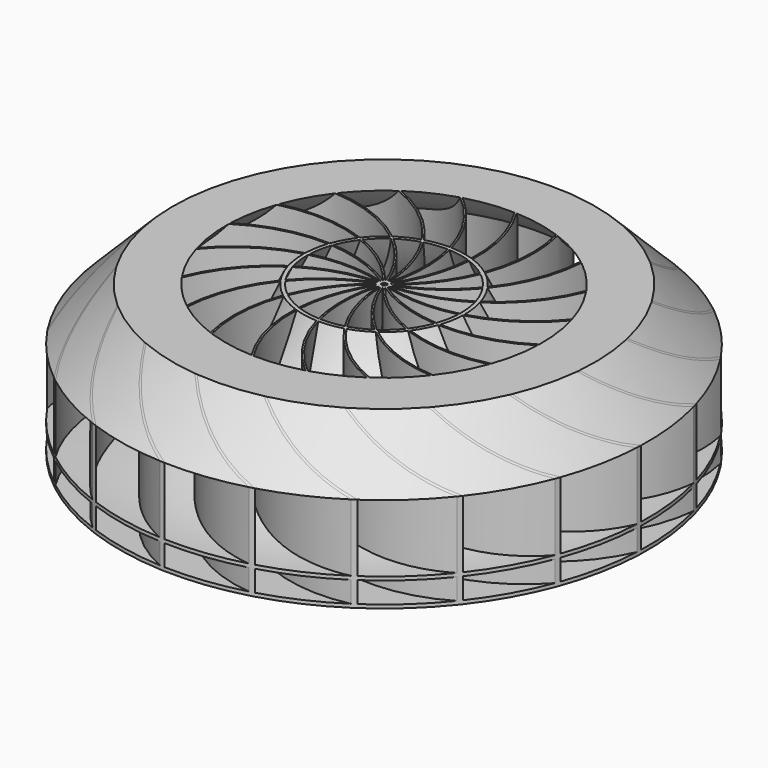
from build123d import *

# Parameters (mm, degrees)
F4_DEPTH = 75


with BuildPart() as f4:
    # F1 (on Top) → F4 (new body, symmetric)
    with BuildSketch(Plane.XY):
        with BuildLine():
            ThreePointArc((0.7718255705, -0.2425991368), (0.6320095937, -0.2450377547), (0.4921859885, -0.2469906074))
            ThreePointArc((0.4921859885, -0.2469906074), (0.5754399954, -0.3582575255), (0.6590824822, -0.4692327079))
            ThreePointArc((0.6590824822, -0.4692327079), (1.0480909241, -0.5852921245), (1.4382501146, -0.6974222369))
            ThreePointArc((1.4382501146, -0.6974222369), (1.1038838253, -0.471701598), (0.7718255705, -0.2425991368))
        make_face()
        with BuildLine():
            ThreePointArc((0.6590824822, -0.4692327079), (0.525356012, -0.4283464584), (0.3917723964, -0.3869958615))
            ThreePointArc((0.3917723964, -0.3869958615), (0.4365682936, -0.5185438919), (0.4818238084, -0.6499345122))
            ThreePointArc((0.4818238084, -0.6499345122), (0.8159284898, -0.8805237962), (1.1523418201, -1.1077316905))
            ThreePointArc((1.1523418201, -1.1077316905), (0.9040920952, -0.7897337403), (0.6590824822, -0.4692327079))
        make_face()
        with BuildLine():
            ThreePointArc((0.4818238084, -0.6499345122), (0.3672769235, -0.5697256263), (0.2530093926, -0.4891192643))
            ThreePointArc((0.2530093926, -0.4891192643), (0.2549622455, -0.6280715693), (0.2574008632, -0.7670161981))
            ThreePointArc((0.2574008632, -0.7670161981), (0.5038972901, -1.0895636637), (0.7536342794, -1.4096086483))
            ThreePointArc((0.7536342794, -1.4096086483), (0.6158015317, -1.0304612418), (0.4818238084, -0.6499345122))
        make_face()
        with BuildLine():
            ThreePointArc((0.2574008632, -0.7670161981), (0.1732462107, -0.6553360804), (0.0894800666, -0.5433642656))
            ThreePointArc((0.0894800666, -0.5433642656), (0.0483987164, -0.6761192255), (0.007781728, -0.8090169944))
            ThreePointArc((0.007781728, -0.8090169944), (0.1425411128, -1.1919494483), (0.2811557646, -1.5735032903))
            ThreePointArc((0.2811557646, -1.5735032903), (0.2672320237, -1.1703200172), (0.2574008632, -0.7670161981))
        make_face()
        with BuildLine():
            ThreePointArc((0.007781728, -0.8090169944), (-0.0377430482, -0.6767976729), (-0.0828081918, -0.5444209867))
            ThreePointArc((-0.0828081918, -0.5444209867), (-0.1629024163, -0.6579836211), (-0.2425991368, -0.7718255705))
            ThreePointArc((-0.2425991368, -0.7718255705), (-0.2327679818, -1.1776589162), (-0.2188442354, -1.583372467))
            ThreePointArc((-0.2188442354, -1.583372467), (-0.1074960167, -1.1956197153), (0.007781728, -0.8090169944))
        make_face()
        with BuildLine():
            ThreePointArc((-0.2425991368, -0.7718255705), (-0.2450377547, -0.6320095937), (-0.2469906074, -0.4921859885))
            ThreePointArc((-0.2469906074, -0.4921859885), (-0.3582575255, -0.5754399954), (-0.4692327079, -0.6590824822))
            ThreePointArc((-0.4692327079, -0.6590824822), (-0.5852921245, -1.0480909241), (-0.6974222369, -1.4382501146))
            ThreePointArc((-0.6974222369, -1.4382501146), (-0.471701598, -1.1038838253), (-0.2425991368, -0.7718255705))
        make_face()
        with BuildLine():
            ThreePointArc((-0.4692327079, -0.6590824822), (-0.4283464584, -0.525356012), (-0.3869958615, -0.3917723964))
            ThreePointArc((-0.3869958615, -0.3917723964), (-0.5185438919, -0.4365682936), (-0.6499345122, -0.4818238084))
            ThreePointArc((-0.6499345122, -0.4818238084), (-0.8805237962, -0.8159284898), (-1.1077316905, -1.1523418201))
            ThreePointArc((-1.1077316905, -1.1523418201), (-0.7897337403, -0.9040920952), (-0.4692327079, -0.6590824822))
        make_face()
        with BuildLine():
            ThreePointArc((-0.6499345122, -0.4818238084), (-0.5697256263, -0.3672769235), (-0.4891192643, -0.2530093926))
            ThreePointArc((-0.4891192643, -0.2530093926), (-0.6280715693, -0.2549622455), (-0.7670161981, -0.2574008632))
            ThreePointArc((-0.7670161981, -0.2574008632), (-1.0895636637, -0.5038972901), (-1.4096086483, -0.7536342794))
            ThreePointArc((-1.4096086483, -0.7536342794), (-1.0304612418, -0.6158015317), (-0.6499345122, -0.4818238084))
        make_face()
        with BuildLine():
            ThreePointArc((0.5444209867, -0.0828081918), (0.6579836211, -0.1629024163), (0.7718255705, -0.2425991368))
            ThreePointArc((0.7718255705, -0.2425991368), (1.1776589162, -0.2327679818), (1.583372467, -0.2188442354))
            ThreePointArc((1.583372467, -0.2188442354), (1.1956197153, -0.1074960167), (0.8090169944, 0.007781728))
            ThreePointArc((0.8090169944, 0.007781728), (0.6767976729, -0.0377430482), (0.5444209867, -0.0828081918))
        make_face()
        with BuildLine():
            ThreePointArc((1.583372467, -0.2188442354), (1.1776589162, -0.2327679818), (0.7718255705, -0.2425991368))
            ThreePointArc((0.7718255705, -0.2425991368), (1.1038838253, -0.471701598), (1.4382501146, -0.6974222369))
            ThreePointArc((1.4382501146, -0.6974222369), (50.877987972, 26.359817874), (24.7986137986, 76.3222854327))
            Line((24.7986137986, 76.3222854327), (24.6441053014, 75.8467571745))
            ThreePointArc((24.6441053014, 75.8467571745), (50.4009351302, 26.5096342157), (1.583372467, -0.2188442354))
        make_face()
        with BuildLine():
            ThreePointArc((1.4382501146, -0.6974222369), (1.0480909241, -0.5852921245), (0.6590824822, -0.4692327079))
            ThreePointArc((0.6590824822, -0.4692327079), (0.9040920952, -0.7897337403), (1.1523418201, -1.1077316905))
            ThreePointArc((1.1523418201, -1.1077316905), (56.5334736885, 9.3475136345), (47.1697664965, 64.9236137986))
            Line((47.1697664965, 64.9236137986), (46.8758738703, 64.5191053014))
            ThreePointArc((46.8758738703, 64.5191053014), (56.1260652702, 9.6374148778), (1.4382501146, -0.6974222369))
        make_face()
        with BuildLine():
            ThreePointArc((1.1523418201, -1.1077316905), (0.8159284898, -0.8805237962), (0.4818238084, -0.6499345122))
            ThreePointArc((0.4818238084, -0.6499345122), (0.6158015317, -1.0304612418), (0.7536342794, -1.4096086483))
            ThreePointArc((0.7536342794, -1.4096086483), (56.6550691084, -8.5797903675), (64.9236137986, 47.1697664965))
            Line((64.9236137986, 47.1697664965), (64.5191053014, 46.8758738703))
            ThreePointArc((64.5191053014, 46.8758738703), (56.3571850884, -8.1781817761), (1.1523418201, -1.1077316905))
        make_face()
        with BuildLine():
            ThreePointArc((0.7536342794, -1.4096086483), (0.5038972901, -1.0895636637), (0.2574008632, -0.7670161981))
            ThreePointArc((0.2574008632, -0.7670161981), (0.2672320237, -1.1703200172), (0.2811557646, -1.5735032903))
            ThreePointArc((0.2811557646, -1.5735032903), (51.230871625, -25.6672447095), (76.3222854327, 24.7986137986))
            Line((76.3222854327, 24.7986137986), (75.8467571745, 24.6441053014))
            ThreePointArc((75.8467571745, 24.6441053014), (51.0716709664, -25.193241017), (0.7536342794, -1.4096086483))
        make_face()
        with BuildLine():
            ThreePointArc((0.2811557646, -1.5735032903), (0.1425411128, -1.1919494483), (0.007781728, -0.8090169944))
            ThreePointArc((0.007781728, -0.8090169944), (-0.1074960167, -1.1956197153), (-0.2188442354, -1.583372467))
            ThreePointArc((-0.2188442354, -1.583372467), (40.7918394804, -40.2422103051), (80.25, 0))
            Line((80.25, 0), (79.75, 0))
            ThreePointArc((79.75, 0), (40.7869058531, -39.7422102956), (0.2811557646, -1.5735032903))
        make_face()
        with BuildLine():
            ThreePointArc((-0.2188442354, -1.583372467), (-0.2327679818, -1.1776589162), (-0.2425991368, -0.7718255705))
            ThreePointArc((-0.2425991368, -0.7718255705), (-0.471701598, -1.1038838253), (-0.6974222369, -1.4382501146))
            ThreePointArc((-0.6974222369, -1.4382501146), (26.359817874, -50.877987972), (76.3222854327, -24.7986137986))
            Line((76.3222854327, -24.7986137986), (75.8467571745, -24.6441053014))
            ThreePointArc((75.8467571745, -24.6441053014), (26.5096342157, -50.4009351302), (-0.2188442354, -1.583372467))
        make_face()
        with BuildLine():
            ThreePointArc((-0.6974222369, -1.4382501146), (-0.5852921245, -1.0480909241), (-0.4692327079, -0.6590824822))
            ThreePointArc((-0.4692327079, -0.6590824822), (-0.7897337403, -0.9040920952), (-1.1077316905, -1.1523418201))
            ThreePointArc((-1.1077316905, -1.1523418201), (9.3475136345, -56.5334736885), (64.9236137986, -47.1697664965))
            Line((64.9236137986, -47.1697664965), (64.5191053014, -46.8758738703))
            ThreePointArc((64.5191053014, -46.8758738703), (9.6374148778, -56.1260652702), (-0.6974222369, -1.4382501146))
        make_face()
        with BuildLine():
            ThreePointArc((-1.1077316905, -1.1523418201), (-0.8805237962, -0.8159284898), (-0.6499345122, -0.4818238084))
            ThreePointArc((-0.6499345122, -0.4818238084), (-1.0304612418, -0.6158015317), (-1.4096086483, -0.7536342794))
            ThreePointArc((-1.4096086483, -0.7536342794), (-8.5797903675, -56.6550691084), (47.1697664965, -64.9236137986))
            Line((47.1697664965, -64.9236137986), (46.8758738703, -64.5191053014))
            ThreePointArc((46.8758738703, -64.5191053014), (-8.1781817761, -56.3571850884), (-1.1077316905, -1.1523418201))
        make_face()
        with BuildLine():
            ThreePointArc((-1.4096086483, -0.7536342794), (-1.0895636637, -0.5038972901), (-0.7670161981, -0.2574008632))
            ThreePointArc((-0.7670161981, -0.2574008632), (-1.1703200172, -0.2672320237), (-1.5735032903, -0.2811557646))
            ThreePointArc((-1.5735032903, -0.2811557646), (-25.6672447095, -51.230871625), (24.7986137986, -76.3222854327))
            Line((24.7986137986, -76.3222854327), (24.6441053014, -75.8467571745))
            ThreePointArc((24.6441053014, -75.8467571745), (-25.193241017, -51.0716709664), (-1.4096086483, -0.7536342794))
        make_face()
        with BuildLine():
            ThreePointArc((-1.5735032903, -0.2811557646), (-1.1703200172, -0.2672320237), (-0.7670161981, -0.2574008632))
            ThreePointArc((-0.7670161981, -0.2574008632), (-0.6553360804, -0.1732462107), (-0.5433642656, -0.0894800666))
            ThreePointArc((-0.5433642656, -0.0894800666), (-0.6761192255, -0.0483987164), (-0.8090169944, -0.007781728))
            ThreePointArc((-0.8090169944, -0.007781728), (-1.1919494483, -0.1425411128), (-1.5735032903, -0.2811557646))
        make_face()
        with BuildLine():
            ThreePointArc((0.8090169944, 0.007781728), (1.1956197153, -0.1074960167), (1.583372467, -0.2188442354))
            ThreePointArc((1.583372467, -0.2188442354), (40.2422103051, 40.7918394804), (0, 80.25))
            Line((0, 80.25), (0, 79.75))
            ThreePointArc((0, 79.75), (39.7422102956, 40.7869058531), (1.5735032903, 0.2811557646))
            ThreePointArc((1.5735032903, 0.2811557646), (1.1919494483, 0.1425411128), (0.8090169944, 0.007781728))
        make_face()
        with BuildLine():
            ThreePointArc((0.6499345122, 0.4818238084), (0.5697256263, 0.3672769235), (0.4891192643, 0.2530093926))
            ThreePointArc((0.4891192643, 0.2530093926), (0.6280715693, 0.2549622455), (0.7670161981, 0.2574008632))
            ThreePointArc((0.7670161981, 0.2574008632), (1.0895636637, 0.5038972901), (1.4096086483, 0.7536342794))
            ThreePointArc((1.4096086483, 0.7536342794), (1.0304612418, 0.6158015317), (0.6499345122, 0.4818238084))
        make_face()
        with BuildLine():
            ThreePointArc((0.4692327079, 0.6590824822), (0.4283464584, 0.525356012), (0.3869958615, 0.3917723964))
            ThreePointArc((0.3869958615, 0.3917723964), (0.5185438919, 0.4365682936), (0.6499345122, 0.4818238084))
            ThreePointArc((0.6499345122, 0.4818238084), (0.8805237962, 0.8159284898), (1.1077316905, 1.1523418201))
            ThreePointArc((1.1077316905, 1.1523418201), (0.7897337403, 0.9040920952), (0.4692327079, 0.6590824822))
        make_face()
        with BuildLine():
            ThreePointArc((0.2425991368, 0.7718255705), (0.2450377547, 0.6320095937), (0.2469906074, 0.4921859885))
            ThreePointArc((0.2469906074, 0.4921859885), (0.3582575255, 0.5754399954), (0.4692327079, 0.6590824822))
            ThreePointArc((0.4692327079, 0.6590824822), (0.5852921245, 1.0480909241), (0.6974222369, 1.4382501146))
            ThreePointArc((0.6974222369, 1.4382501146), (0.471701598, 1.1038838253), (0.2425991368, 0.7718255705))
        make_face()
        with BuildLine():
            ThreePointArc((-0.007781728, 0.8090169944), (0.0377430482, 0.6767976729), (0.0828081918, 0.5444209867))
            ThreePointArc((0.0828081918, 0.5444209867), (0.1629024163, 0.6579836211), (0.2425991368, 0.7718255705))
            ThreePointArc((0.2425991368, 0.7718255705), (0.2327679818, 1.1776589162), (0.2188442354, 1.583372467))
            ThreePointArc((0.2188442354, 1.583372467), (0.1074960167, 1.1956197153), (-0.007781728, 0.8090169944))
        make_face()
        with BuildLine():
            ThreePointArc((-0.2574008632, 0.7670161981), (-0.1732462107, 0.6553360804), (-0.0894800666, 0.5433642656))
            ThreePointArc((-0.0894800666, 0.5433642656), (-0.0483987164, 0.6761192255), (-0.007781728, 0.8090169944))
            ThreePointArc((-0.007781728, 0.8090169944), (-0.1425411128, 1.1919494483), (-0.2811557646, 1.5735032903))
            ThreePointArc((-0.2811557646, 1.5735032903), (-0.2672320237, 1.1703200172), (-0.2574008632, 0.7670161981))
        make_face()
        with BuildLine():
            ThreePointArc((-0.4818238084, 0.6499345122), (-0.3672769235, 0.5697256263), (-0.2530093926, 0.4891192643))
            ThreePointArc((-0.2530093926, 0.4891192643), (-0.2549622455, 0.6280715693), (-0.2574008632, 0.7670161981))
            ThreePointArc((-0.2574008632, 0.7670161981), (-0.5038972901, 1.0895636637), (-0.7536342794, 1.4096086483))
            ThreePointArc((-0.7536342794, 1.4096086483), (-0.6158015317, 1.0304612418), (-0.4818238084, 0.6499345122))
        make_face()
        with BuildLine():
            ThreePointArc((-0.6590824822, 0.4692327079), (-0.525356012, 0.4283464584), (-0.3917723964, 0.3869958615))
            ThreePointArc((-0.3917723964, 0.3869958615), (-0.4365682936, 0.5185438919), (-0.4818238084, 0.6499345122))
            ThreePointArc((-0.4818238084, 0.6499345122), (-0.8159284898, 0.8805237962), (-1.1523418201, 1.1077316905))
            ThreePointArc((-1.1523418201, 1.1077316905), (-0.9040920952, 0.7897337403), (-0.6590824822, 0.4692327079))
        make_face()
        with BuildLine():
            ThreePointArc((-0.7718255705, 0.2425991368), (-0.6320095937, 0.2450377547), (-0.4921859885, 0.2469906074))
            ThreePointArc((-0.4921859885, 0.2469906074), (-0.5754399954, 0.3582575255), (-0.6590824822, 0.4692327079))
            ThreePointArc((-0.6590824822, 0.4692327079), (-1.0480909241, 0.5852921245), (-1.4382501146, 0.6974222369))
            ThreePointArc((-1.4382501146, 0.6974222369), (-1.1038838253, 0.471701598), (-0.7718255705, 0.2425991368))
        make_face()
        with BuildLine():
            ThreePointArc((-0.8090169944, -0.007781728), (-0.6767976729, 0.0377430482), (-0.5444209867, 0.0828081918))
            ThreePointArc((-0.5444209867, 0.0828081918), (-0.6579836211, 0.1629024163), (-0.7718255705, 0.2425991368))
            ThreePointArc((-0.7718255705, 0.2425991368), (-1.1776589162, 0.2327679818), (-1.583372467, 0.2188442354))
            ThreePointArc((-1.583372467, 0.2188442354), (-1.1956197153, 0.1074960167), (-0.8090169944, -0.007781728))
        make_face()
        with BuildLine():
            ThreePointArc((0.7670161981, 0.2574008632), (0.6553360804, 0.1732462107), (0.5433642656, 0.0894800666))
            ThreePointArc((0.5433642656, 0.0894800666), (0.6761192255, 0.0483987164), (0.8090169944, 0.007781728))
            ThreePointArc((0.8090169944, 0.007781728), (1.1919494483, 0.1425411128), (1.5735032903, 0.2811557646))
            ThreePointArc((1.5735032903, 0.2811557646), (1.1703200172, 0.2672320237), (0.7670161981, 0.2574008632))
        make_face()
        with BuildLine():
            ThreePointArc((0, -79.75), (-39.7422102956, -40.7869058531), (-1.5735032903, -0.2811557646))
            ThreePointArc((-1.5735032903, -0.2811557646), (-1.1919494483, -0.1425411128), (-0.8090169944, -0.007781728))
            ThreePointArc((-0.8090169944, -0.007781728), (-1.1956197153, 0.1074960167), (-1.583372467, 0.2188442354))
            ThreePointArc((-1.583372467, 0.2188442354), (-40.2422103051, -40.7918394804), (0, -80.25))
            Line((0, -80.25), (0, -79.75))
        make_face()
        with BuildLine():
            ThreePointArc((1.4096086483, 0.7536342794), (1.0895636637, 0.5038972901), (0.7670161981, 0.2574008632))
            ThreePointArc((0.7670161981, 0.2574008632), (1.1703200172, 0.2672320237), (1.5735032903, 0.2811557646))
            ThreePointArc((1.5735032903, 0.2811557646), (25.6672447095, 51.230871625), (-24.7986137986, 76.3222854327))
            Line((-24.7986137986, 76.3222854327), (-24.6441053014, 75.8467571745))
            ThreePointArc((-24.6441053014, 75.8467571745), (25.193241017, 51.0716709664), (1.4096086483, 0.7536342794))
        make_face()
        with BuildLine():
            ThreePointArc((1.1077316905, 1.1523418201), (0.8805237962, 0.8159284898), (0.6499345122, 0.4818238084))
            ThreePointArc((0.6499345122, 0.4818238084), (1.0304612418, 0.6158015317), (1.4096086483, 0.7536342794))
            ThreePointArc((1.4096086483, 0.7536342794), (8.5797903675, 56.6550691084), (-47.1697664965, 64.9236137986))
            Line((-47.1697664965, 64.9236137986), (-46.8758738703, 64.5191053014))
            ThreePointArc((-46.8758738703, 64.5191053014), (8.1781817761, 56.3571850883), (1.1077316905, 1.1523418201))
        make_face()
        with BuildLine():
            ThreePointArc((0.6974222369, 1.4382501146), (0.5852921245, 1.0480909241), (0.4692327079, 0.6590824822))
            ThreePointArc((0.4692327079, 0.6590824822), (0.7897337403, 0.9040920952), (1.1077316905, 1.1523418201))
            ThreePointArc((1.1077316905, 1.1523418201), (-9.3475136345, 56.5334736885), (-64.9236137986, 47.1697664965))
            Line((-64.9236137986, 47.1697664965), (-64.5191053014, 46.8758738703))
            ThreePointArc((-64.5191053014, 46.8758738703), (-9.6374148778, 56.1260652702), (0.6974222369, 1.4382501146))
        make_face()
        with BuildLine():
            ThreePointArc((0.2188442354, 1.583372467), (0.2327679818, 1.1776589162), (0.2425991368, 0.7718255705))
            ThreePointArc((0.2425991368, 0.7718255705), (0.471701598, 1.1038838253), (0.6974222369, 1.4382501146))
            ThreePointArc((0.6974222369, 1.4382501146), (-26.359817874, 50.877987972), (-76.3222854327, 24.7986137986))
            Line((-76.3222854327, 24.7986137986), (-75.8467571745, 24.6441053014))
            ThreePointArc((-75.8467571745, 24.6441053014), (-26.5096342157, 50.4009351302), (0.2188442354, 1.583372467))
        make_face()
        with BuildLine():
            ThreePointArc((-0.2811557646, 1.5735032903), (-0.1425411128, 1.1919494483), (-0.007781728, 0.8090169944))
            ThreePointArc((-0.007781728, 0.8090169944), (0.1074960167, 1.1956197153), (0.2188442354, 1.583372467))
            ThreePointArc((0.2188442354, 1.583372467), (-40.7918394804, 40.2422103051), (-80.25, 0))
            Line((-80.25, 0), (-79.75, 0))
            ThreePointArc((-79.75, 0), (-40.7869058531, 39.7422102956), (-0.2811557646, 1.5735032903))
        make_face()
        with BuildLine():
            ThreePointArc((-0.7536342794, 1.4096086483), (-0.5038972901, 1.0895636637), (-0.2574008632, 0.7670161981))
            ThreePointArc((-0.2574008632, 0.7670161981), (-0.2672320237, 1.1703200172), (-0.2811557646, 1.5735032903))
            ThreePointArc((-0.2811557646, 1.5735032903), (-51.230871625, 25.6672447095), (-76.3222854327, -24.7986137986))
            Line((-76.3222854327, -24.7986137986), (-75.8467571745, -24.6441053014))
            ThreePointArc((-75.8467571745, -24.6441053014), (-51.0716709664, 25.193241017), (-0.7536342794, 1.4096086483))
        make_face()
        with BuildLine():
            ThreePointArc((-1.1523418201, 1.1077316905), (-0.8159284898, 0.8805237962), (-0.4818238084, 0.6499345122))
            ThreePointArc((-0.4818238084, 0.6499345122), (-0.6158015317, 1.0304612418), (-0.7536342794, 1.4096086483))
            ThreePointArc((-0.7536342794, 1.4096086483), (-56.6550691084, 8.5797903675), (-64.9236137986, -47.1697664965))
            Line((-64.9236137986, -47.1697664965), (-64.5191053014, -46.8758738703))
            ThreePointArc((-64.5191053014, -46.8758738703), (-56.3571850883, 8.1781817761), (-1.1523418201, 1.1077316905))
        make_face()
        with BuildLine():
            ThreePointArc((-1.4382501146, 0.6974222369), (-1.0480909241, 0.5852921245), (-0.6590824822, 0.4692327079))
            ThreePointArc((-0.6590824822, 0.4692327079), (-0.9040920952, 0.7897337403), (-1.1523418201, 1.1077316905))
            ThreePointArc((-1.1523418201, 1.1077316905), (-56.5334736885, -9.3475136345), (-47.1697664965, -64.9236137986))
            Line((-47.1697664965, -64.9236137986), (-46.8758738703, -64.5191053014))
            ThreePointArc((-46.8758738703, -64.5191053014), (-56.1260652702, -9.6374148778), (-1.4382501146, 0.6974222369))
        make_face()
        with BuildLine():
            ThreePointArc((-1.583372467, 0.2188442354), (-1.1776589162, 0.2327679818), (-0.7718255705, 0.2425991368))
            ThreePointArc((-0.7718255705, 0.2425991368), (-1.1038838253, 0.471701598), (-1.4382501146, 0.6974222369))
            ThreePointArc((-1.4382501146, 0.6974222369), (-50.877987972, -26.359817874), (-24.7986137986, -76.3222854327))
            Line((-24.7986137986, -76.3222854327), (-24.6441053014, -75.8467571745))
            ThreePointArc((-24.6441053014, -75.8467571745), (-50.4009351302, -26.5096342157), (-1.583372467, 0.2188442354))
        make_face()
    extrude(amount=F4_DEPTH, both=True)

    # F2 (on Front) → F5 (revolve)
    with BuildSketch(Plane.XZ):
        with BuildLine():
            Line((-60, 15), (-75, 0))
            ThreePointArc((-75, 0), (-58.2294901688, 3.9589803375), (-45, 15))
            Line((-45, 15), (-60, 15))
        make_face()
        with BuildLine():
            ThreePointArc((-23.0439876218, 15), (-43.9214184222, -9.8265146547), (-75, -19.1187002875))
            Line((-75, -19.1187002875), (-75, -20.1187002875))
            ThreePointArc((-75, -20.1187002875), (-43.1920303513, -10.543393819), (-21.9560123782, 15))
            Line((-21.9560123782, 15), (-23.0439876218, 15))
        make_face()
        with BuildLine():
            Line((-45, -26.1187002875), (-75, -26.1187002875))
            Line((-75, -26.1187002875), (-75, -27.1187002875))
            ThreePointArc((-75, -27.1187002875), (-39.2319313387, -31.3236347591), (-5.4142544032, -43.7091479239))
            ThreePointArc((-5.4142544032, -43.7091479239), (-2.7830042142, -44.6728268874), (0, -45))
            Line((0, -45), (0, 15))
            ThreePointArc((0, 15), (-14.5215341867, -14.2909238338), (-45, -26.1187002875))
        make_face()
    revolve(axis=Axis((0, 0, -4.5241508633), (0, 0, -1)))

    # F2 (on Front) → F6 (revolve, intersect)
    with BuildSketch(Plane.XZ):
        with BuildLine():
            Line((-60, 15), (-75, 0))
            ThreePointArc((-75, 0), (-58.2294901688, 3.9589803375), (-45, 15))
            Line((-45, 15), (-60, 15))
        make_face()
        with BuildLine():
            ThreePointArc((-45, 15), (-58.2294901688, 3.9589803375), (-75, 0))
            Line((-75, 0), (-75, -19.1187002875))
            ThreePointArc((-75, -19.1187002875), (-43.9214184222, -9.8265146547), (-23.0439876218, 15))
            Line((-23.0439876218, 15), (-45, 15))
        make_face()
        with BuildLine():
            ThreePointArc((-23.0439876218, 15), (-43.9214184222, -9.8265146547), (-75, -19.1187002875))
            Line((-75, -19.1187002875), (-75, -20.1187002875))
            ThreePointArc((-75, -20.1187002875), (-43.1920303513, -10.543393819), (-21.9560123782, 15))
            Line((-21.9560123782, 15), (-23.0439876218, 15))
        make_face()
        with BuildLine():
            ThreePointArc((-21.9560123782, 15), (-43.1920303513, -10.543393819), (-75, -20.1187002875))
            Line((-75, -20.1187002875), (-75, -26.1187002875))
            Line((-75, -26.1187002875), (-45, -26.1187002875))
            ThreePointArc((-45, -26.1187002875), (-14.5215341867, -14.2909238338), (0, 15))
            Line((0, 15), (-21.9560123782, 15))
        make_face()
        with BuildLine():
            Line((-45, -26.1187002875), (-75, -26.1187002875))
            Line((-75, -26.1187002875), (-75, -27.1187002875))
            ThreePointArc((-75, -27.1187002875), (-39.2319313387, -31.3236347591), (-5.4142544032, -43.7091479239))
            ThreePointArc((-5.4142544032, -43.7091479239), (-2.7830042142, -44.6728268874), (0, -45))
            Line((0, -45), (0, 15))
            ThreePointArc((0, 15), (-14.5215341867, -14.2909238338), (-45, -26.1187002875))
        make_face()
    revolve(axis=Axis((0, 0, -4.5241508633), (0, 0, -1)), mode=Mode.INTERSECT)


solid = f4.part
